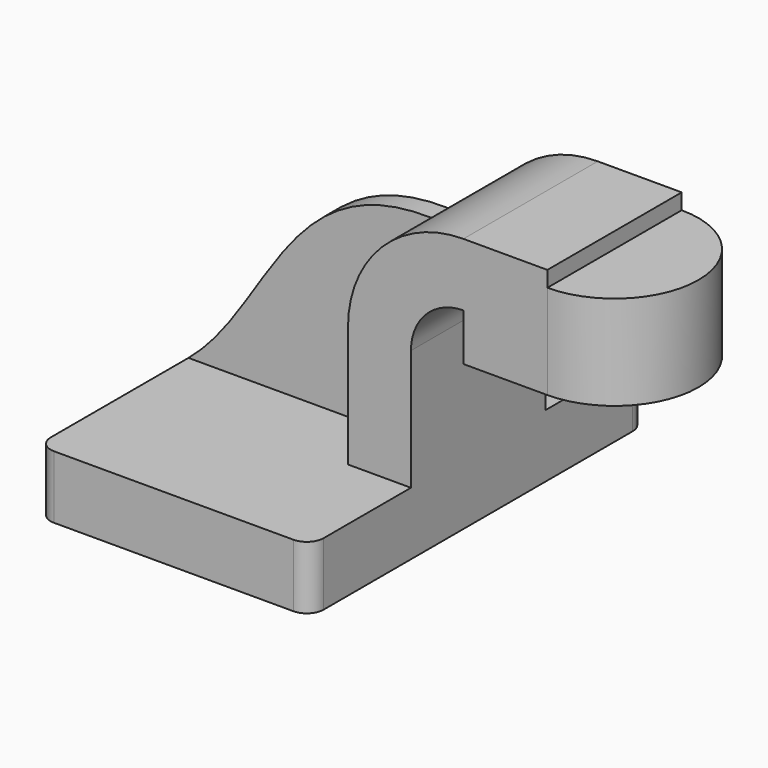
from build123d import *

# Parameters (mm, degrees)
F1_DEPTH = 63.5
F0_W     = 25.4
F0_H     = 14.2875
F2_DEPTH = 25.4
F3_DEPTH = 6.35
F5_R     = 5.08


with BuildPart() as f1:
    # F0 (on Front) → F1 (new body, symmetric)
    with BuildSketch(Plane.XZ):
        Polygon((41.275, -9.525), (41.275, 9.525), (22.225, 9.525), (-41.275, 9.525), (-41.275, -9.525), align=None)
    extrude(amount=F1_DEPTH, both=True)

    # F0 (on Front) → F2 (join, symmetric)
    with BuildSketch(Plane.XZ):
        with BuildLine():
            Line((22.225, 9.525), (41.275, 9.525))
            Line((41.275, 9.525), (41.275, 46.0502))
            ThreePointArc((41.275, 46.0502), (45.92468, 57.27552), (57.15, 61.9252))
            Line((57.15, 61.9252), (57.15, 76.2127))
            Line((57.15, 76.2127), (82.55, 76.2127))
            Line((82.55, 76.2127), (82.55, 80.9752))
            Line((82.55, 80.9752), (57.15, 80.9752))
            ThreePointArc((57.15, 80.9752), (43.784781, 78.316693), (32.454296, 70.745904))
            ThreePointArc((32.454296, 70.745904), (24.883507, 59.415419), (22.225, 46.0502))
            Line((22.225, 46.0502), (22.225, 9.525))
        make_face()
        with Locations((69.85, 69.06895)):
            Rectangle(F0_W, F0_H)
        with Locations((69.85, 54.78145)):
            Rectangle(F0_W, F0_H)
    extrude(amount=F2_DEPTH, both=True)

    # F0 (on Front) → F3 (join)
    with BuildSketch(Plane.XZ):
        with BuildLine():
            Line((-41.275, 9.525), (22.225, 9.525))
            Line((22.225, 9.525), (22.225, 46.0502))
            ThreePointArc((22.225, 46.0502), (24.883507, 59.415419), (32.454296, 70.745904))
            add(Edge.make_bspline(
                [(-41.275, 9.525), (-16.698568, 29.931968), (-11.974066, 71.80158), (32.454296, 70.745904)],
                knots=[0, 0, 0, 0, 95.833231, 95.833231, 95.833231, 95.833231], degree=3))
        make_face()
    extrude(amount=F3_DEPTH)

    # F0 (on Front) → F4 (revolve)
    with BuildSketch(Plane.XZ):
        Polygon((82.55, 76.2127), (82.55, 61.9252), (82.55, 47.6377), (107.95, 47.6377), (107.95, 76.2127), align=None)
    revolve(axis=Axis((82.55, 0, 64.30645), (0, 0, -1)))

    # F5
    f5_edges = [f1.edges().sort_by_distance(p)[0] for p in [
        (-41.275, -63.5, 0),
        (41.275, -63.5, 0),
        (-41.275, 63.5, 0),
        (41.275, 63.5, 0),
    ]]
    fillet(f5_edges, radius=F5_R)


solid = f1.part
